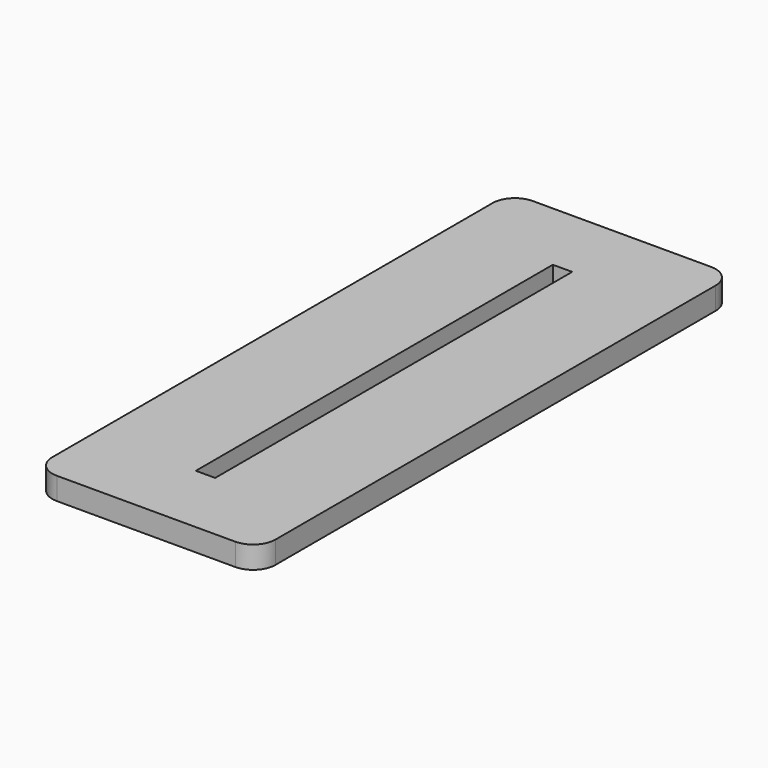
from build123d import *

# Parameters (mm, degrees)
F0_W     = 30
F0_H     = 80
F1_DEPTH = 3
F2_R     = 3


with BuildPart() as f1:
    # F0 (on Top) → F1 (new body)
    with BuildSketch(Plane.XY):
        with Locations((1.996199, 18.782021)):
            Rectangle(F0_W, F0_H)
        Polygon((0.696199, 48.782021), (1.996199, 48.782021), (3.296199, 48.782021), (3.296199, -11.217979), (1.996199, -11.217979), (0.696199, -11.217979), align=None, mode=Mode.SUBTRACT)
    extrude(amount=F1_DEPTH)

    # F2
    f2_edges = [f1.edges().sort_by_distance(p)[0] for p in [
        (16.996199, -21.217979, 1.5),
        (-13.003801, -21.217979, 1.5),
        (-13.003801, 58.782021, 1.5),
        (16.996199, 58.782021, 1.5),
    ]]
    fillet(f2_edges, radius=F2_R)


solid = f1.part
